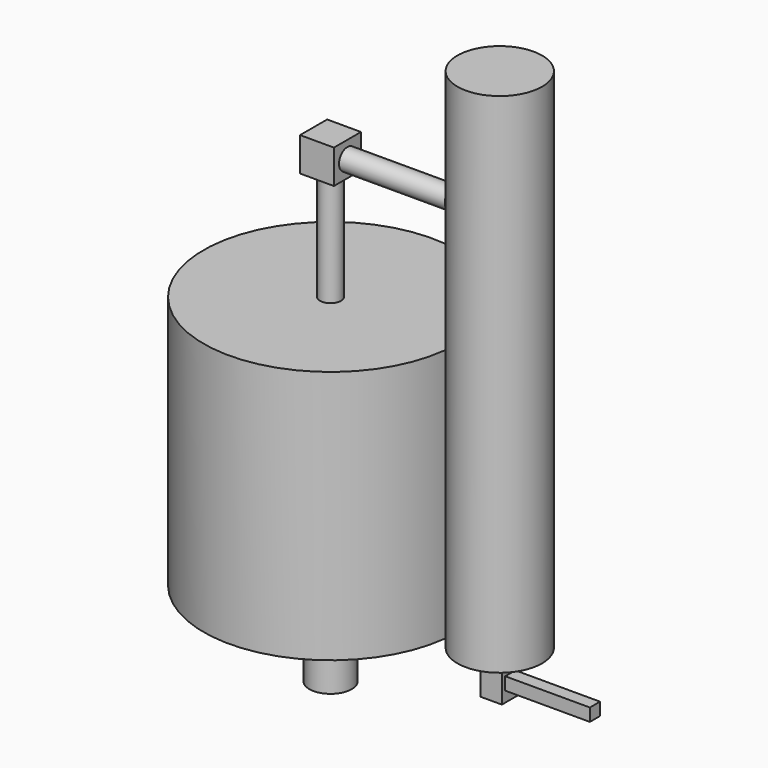
from build123d import *

# Parameters (mm, degrees)
F0_R           = 30
F1_DEPTH       = 60
F2_W           = 10
F2_H           = 120
F6_R           = 5
F7_DEPTH       = 20
F8_W           = 5
F8_H           = 5
F9_DEPTH       = 10
F10_W          = 3
F10_H          = 3
F11_DEPTH      = 20
F12_R          = 2.5
F13_DEPTH      = 30
F13_DEPTH_BACK = 10
F15_W          = 8
F15_H          = 8
F16_DEPTH      = 4
F17_R          = 2.5
F18_DEPTH      = 25


with BuildPart() as f1:
    # F0 (on Top) → F1 (new body)
    with BuildSketch(Plane.XY):
        Circle(F0_R)
    extrude(amount=F1_DEPTH)

    # F6 (on face) → F7 (join)
    with BuildSketch(Plane(origin=(0, 0, 0), x_dir=(1, 0, 0), z_dir=(0, 0, -1))):
        Circle(F6_R)
    extrude(amount=F7_DEPTH)


with BuildPart() as f3:
    # F2 (on Front) → F3 (revolve)
    with BuildSketch(Plane.XZ):
        with Locations((45, 60)):
            Rectangle(F2_W, F2_H)
    revolve(axis=Axis((40, 0, 60), (0, 0, 1)))

    # F4 (on Front) → F5 (revolve, cut)
    with BuildSketch(Plane.XZ):
        with BuildLine():
            Line((40, 118), (40, 2))
            Line((40, 2), (48, 2))
            Line((48, 2), (48, 10))
            ThreePointArc((48, 10), (45, 13), (48, 16))
            Line((48, 16), (48, 19))
            ThreePointArc((48, 19), (45, 22), (48, 25))
            Line((48, 25), (48, 28))
            ThreePointArc((48, 28), (45, 31), (48, 34))
            Line((48, 34), (48, 37))
            ThreePointArc((48, 37), (45, 40), (48, 43))
            Line((48, 43), (48, 46))
            ThreePointArc((48, 46), (45, 49), (48, 52))
            Line((48, 52), (48, 55))
            ThreePointArc((48, 55), (45, 58), (48, 61))
            Line((48, 61), (48, 64))
            ThreePointArc((48, 64), (45, 67), (48, 70))
            Line((48, 70), (48, 73))
            ThreePointArc((48, 73), (45, 76), (48, 79))
            Line((48, 79), (48, 82))
            ThreePointArc((48, 82), (45, 85), (48, 88))
            Line((48, 88), (48, 91))
            ThreePointArc((48, 91), (45, 94), (48, 97))
            Line((48, 97), (48, 100))
            ThreePointArc((48, 100), (45, 103), (48, 106))
            Line((48, 106), (48, 109))
            ThreePointArc((48, 109), (45, 112), (48, 115))
            Line((48, 115), (48, 118))
            Line((48, 118), (40, 118))
        make_face()
    revolve(axis=Axis((40, 0, 60), (0, 0, 1)), mode=Mode.SUBTRACT)

    # F8 (on face) → F9 (join)
    with BuildSketch(Plane(origin=(0, 0, 0), x_dir=(1, 0, 0), z_dir=(0, 0, -1))):
        with Locations((40, 0)):
            Rectangle(F8_W, F8_H)
    extrude(amount=F9_DEPTH)

    # F10 (on face) → F11 (join)
    with BuildSketch(Plane.YZ.offset(42.5)):
        with Locations((0, -6)):
            Rectangle(F10_W, F10_H)
    extrude(amount=F11_DEPTH)


with BuildPart() as f13:
    # F12 (on face) → F13 (new body, two sides)
    with BuildSketch(Plane.XY.offset(60)) as f13_sk:
        Circle(F12_R)
    extrude(amount=F13_DEPTH)
    extrude(f13_sk.sketch, amount=-F13_DEPTH_BACK)

    # F15 (on face) → F16 (join, symmetric)
    with BuildSketch(Plane.XY.offset(90)):
        Rectangle(F15_W, F15_H)
    extrude(amount=F16_DEPTH, both=True)

    # F17 (on face) → F18 (join)
    with BuildSketch(Plane.YZ.offset(4)):
        with Locations((0, 90)):
            Circle(F17_R)
    extrude(amount=F18_DEPTH)


with BuildPart() as f1_1:
    add(f1.part)

    # F14: cut F13
    add(f13.part, mode=Mode.SUBTRACT)


solid = Compound([f3.part, f13.part, f1_1.part])
